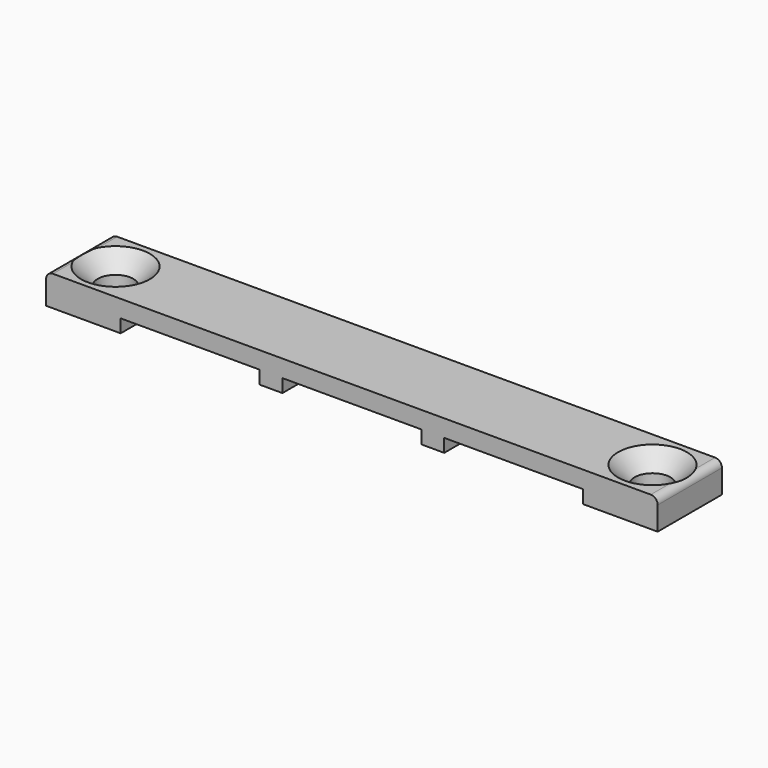
from build123d import *

# Parameters (mm, degrees)
F2_DEPTH       = 7
F5_D           = 3.1
F5_CSINK_D     = 6
F5_CSINK_ANGLE = 90
F6_D           = 3.1
F6_CSINK_D     = 6
F6_CSINK_ANGLE = 90


with BuildPart() as f2:
    # F1 (on Front) → F2 (new body)
    with BuildSketch(Plane.XZ):
        with BuildLine():
            Line((-6.05, 1.15), (0, 1.15))
            Line((0, 1.15), (6.05, 1.15))
            Line((6.05, 1.15), (6.05, 0))
            Line((6.05, 0), (8.05, 0))
            Line((8.05, 0), (8.05, 1.15))
            Line((8.05, 1.15), (20.15, 1.15))
            Line((20.15, 1.15), (20.15, 0))
            Line((20.15, 0), (26.65, 0))
            Line((26.65, 0), (26.65, 2.05))
            ThreePointArc((26.65, 2.05), (26.4742640687, 2.4742640687), (26.05, 2.65))
            Line((26.05, 2.65), (0, 2.65))
            Line((0, 2.65), (-26.05, 2.65))
            ThreePointArc((-26.05, 2.65), (-26.4742640687, 2.4742640687), (-26.65, 2.05))
            Line((-26.65, 2.05), (-26.65, 0))
            Line((-26.65, 0), (-20.15, 0))
            Line((-20.15, 0), (-20.15, 1.15))
            Line((-20.15, 1.15), (-8.05, 1.15))
            Line((-8.05, 1.15), (-8.05, 0))
            Line((-8.05, 0), (-6.05, 0))
            Line((-6.05, 0), (-6.05, 1.15))
        make_face()
    extrude(amount=F2_DEPTH)

    # F5 (through all)
    with Locations(Plane.XY.offset(2.65)):
        with Locations((-23.4, -3.5)):
            CounterSinkHole(F5_D / 2, F5_CSINK_D / 2, counter_sink_angle=F5_CSINK_ANGLE)

    # F6 (through all)
    with Locations(Plane.XY.offset(2.65)):
        with Locations((23.4, -3.5)):
            CounterSinkHole(F6_D / 2, F6_CSINK_D / 2, counter_sink_angle=F6_CSINK_ANGLE)


solid = f2.part
